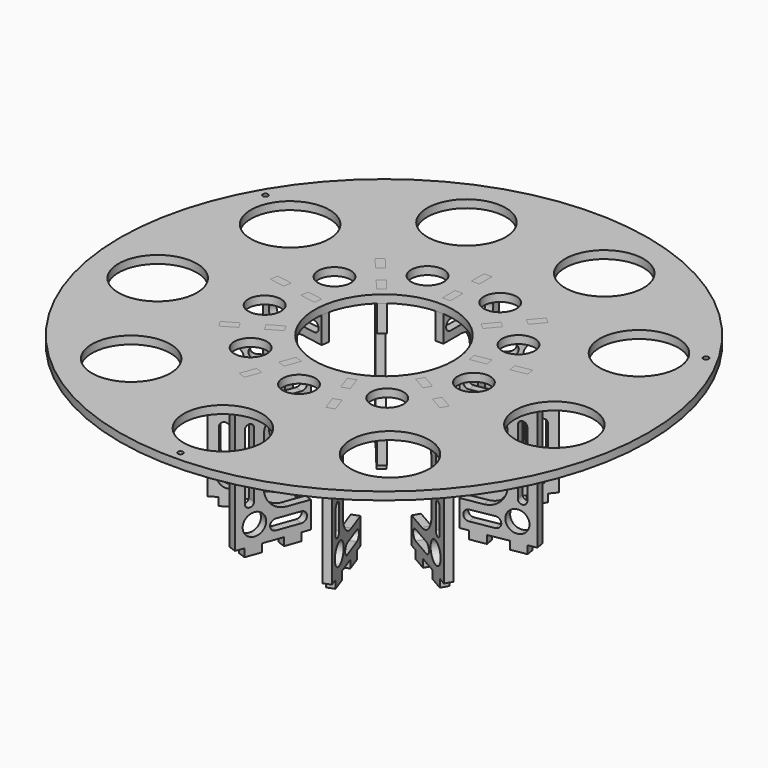
from build123d import *

# Parameters (mm, degrees)
F1_R     = 100
F1_R_2   = 14.8733999491
F1_R_3   = 1
F1_R_4   = 52.5
F1_R_5   = 6.1988966649
F1_R_6   = 26.25
F1_W     = 3
F1_H     = 6
F3_DEPTH = 3
F2_R     = 4.0793802843
F5_DEPTH = 1.5
F6_COUNT = 9


with BuildPart() as f3:
    # F1 (on Top) → F3 (new body)
    with BuildSketch(Plane.XY):
        Circle(F1_R)
        with Locations((-49.0125552386, -58.4108887878)):
            Circle(F1_R_2, mode=Mode.SUBTRACT)
        with Locations((-75.0915911672, -13.2406735471)):
            Circle(F1_R_2, mode=Mode.SUBTRACT)
        with Locations((0, -96.309684217)):
            Circle(F1_R_3, mode=Mode.SUBTRACT)
        with Locations((0, -76.25)):
            Circle(F1_R_2, mode=Mode.SUBTRACT)
        with Locations((49.0125552386, -58.4108887878)):
            Circle(F1_R_2, mode=Mode.SUBTRACT)
        with Locations((75.0915911672, -13.2406735471)):
            Circle(F1_R_2, mode=Mode.SUBTRACT)
        with Locations((-83.4066331624, 48.1548421085)):
            Circle(F1_R_3, mode=Mode.SUBTRACT)
        with Locations((-66.0344370386, 38.125)):
            Circle(F1_R_2, mode=Mode.SUBTRACT)
        with Locations((-26.0790359286, 71.6515623349)):
            Circle(F1_R_2, mode=Mode.SUBTRACT)
        Circle(F1_R_4, mode=Mode.SUBTRACT)
        with Locations((66.0344370386, 38.125)):
            Circle(F1_R_2, mode=Mode.SUBTRACT)
        with Locations((83.4066331624, 48.1548421085)):
            Circle(F1_R_3, mode=Mode.SUBTRACT)
        with Locations((26.0790359286, 71.6515623349)):
            Circle(F1_R_2, mode=Mode.SUBTRACT)
        Circle(F1_R_4)
        with Locations((-25.850554124, -30.8074907478)):
            Circle(F1_R_5, mode=Mode.SUBTRACT)
        Polygon((-18.2433428605, -45.7374659643), (-16.1912220005, -40.0993102396), (-13.3721441382, -41.1253706696), (-15.4242649981, -46.7635263943), align=None, mode=Mode.SUBTRACT)
        Polygon((-10.7428642864, -33.9014836473), (-13.5619421487, -32.8754232173), (-11.5098212888, -27.2372674926), (-8.6907434264, -28.2633279226), align=None, mode=Mode.SUBTRACT)
        Polygon((-43.3746878425, -23.3103368943), (-38.1785354198, -20.3103368943), (-36.6785354198, -22.9084131057), (-41.8746878425, -25.9084131057), align=None, mode=Mode.SUBTRACT)
        Polygon((-30.0209651282, -19.0646631057), (-31.5209651282, -16.4665868943), (-26.3248127055, -13.4665868943), (-24.8248127055, -16.0646631057), align=None, mode=Mode.SUBTRACT)
        with Locations((-39.6053466765, -6.9834911994)):
            Circle(F1_R_5, mode=Mode.SUBTRACT)
        with Locations((0, -40.2163229883)):
            Circle(F1_R_5, mode=Mode.SUBTRACT)
        Polygon((15.4242649981, -46.7635263943), (13.3721441382, -41.1253706696), (16.1912220005, -40.0993102396), (18.2433428605, -45.7374659643), align=None, mode=Mode.SUBTRACT)
        Polygon((13.5619421487, -32.8754232173), (10.7428642864, -33.9014836473), (8.6907434264, -28.2633279226), (11.5098212888, -27.2372674926), align=None, mode=Mode.SUBTRACT)
        with Locations((25.850554124, -30.8074907478)):
            Circle(F1_R_5, mode=Mode.SUBTRACT)
        Polygon((31.5209651282, -16.4665868943), (30.0209651282, -19.0646631057), (24.8248127055, -16.0646631057), (26.3248127055, -13.4665868943), align=None, mode=Mode.SUBTRACT)
        Polygon((41.8746878425, -25.9084131057), (36.6785354198, -22.9084131057), (38.1785354198, -20.3103368943), (43.3746878425, -23.3103368943), align=None, mode=Mode.SUBTRACT)
        with Locations((39.6053466765, -6.9834911994)):
            Circle(F1_R_5, mode=Mode.SUBTRACT)
        Polygon((-48.2105343271, 10.0239578741), (-42.301687809, 8.9820688081), (-42.822632342, 6.027645549), (-48.7314788601, 7.069534615), align=None, mode=Mode.SUBTRACT)
        Polygon((-35.2519227407, 4.6927251832), (-34.7309782077, 7.6471484422), (-28.8221316896, 6.6052593762), (-29.3430762226, 3.6508361172), align=None, mode=Mode.SUBTRACT)
        with Locations((-34.8283573546, 20.1081614941)):
            Circle(F1_R_5, mode=Mode.SUBTRACT)
        Polygon((-23.9881139214, 26.254335205), (-21.689980592, 28.1826980341), (-17.8332549339, 23.5864313754), (-20.1313882632, 21.6580685463), align=None, mode=Mode.SUBTRACT)
        Polygon((-30.4881359996, 38.6679313493), (-26.6314103415, 34.0716646906), (-28.9295436708, 32.1433018615), (-32.7862693289, 36.7395685202), align=None, mode=Mode.SUBTRACT)
        with Locations((-13.7547925525, 37.7909819472)):
            Circle(F1_R_5, mode=Mode.SUBTRACT)
        Circle(F1_R_6, mode=Mode.SUBTRACT)
        Polygon((21.689980592, 28.1826980341), (23.9881139214, 26.254335205), (20.1313882632, 21.6580685463), (17.8332549339, 23.5864313754), align=None, mode=Mode.SUBTRACT)
        Polygon((34.7309782077, 7.6471484422), (35.2519227407, 4.6927251832), (29.3430762226, 3.6508361172), (28.8221316896, 6.6052593762), align=None, mode=Mode.SUBTRACT)
        Polygon((48.7314788601, 7.069534615), (42.822632342, 6.027645549), (42.301687809, 8.9820688081), (48.2105343271, 10.0239578741), align=None, mode=Mode.SUBTRACT)
        with Locations((34.8283573546, 20.1081614941)):
            Circle(F1_R_5, mode=Mode.SUBTRACT)
        with Locations((0, 32.53125)):
            Rectangle(F1_W, F1_H, mode=Mode.SUBTRACT)
        with Locations((0, 46.21875)):
            Rectangle(F1_W, F1_H, mode=Mode.SUBTRACT)
        with Locations((13.7547925525, 37.7909819472)):
            Circle(F1_R_5, mode=Mode.SUBTRACT)
        Polygon((32.7862693289, 36.7395685202), (28.9295436708, 32.1433018615), (26.6314103415, 34.0716646906), (30.4881359996, 38.6679313493), align=None, mode=Mode.SUBTRACT)
    extrude(amount=F3_DEPTH)


with BuildPart() as f5:
    # F2 (on Right) → F5 (new body, symmetric)
    with BuildSketch(Plane.YZ):
        with BuildLine():
            Line((52.5, -54), (52.5, -27))
            Line((52.5, -27), (42.5, -27))
            Line((42.5, -27), (42.5, -36))
            ThreePointArc((42.5, -36), (40.1568542495, -41.6568542495), (34.5, -44))
            Line((34.5, -44), (26.25, -44))
            Line((26.25, -44), (26.25, -54))
            Line((26.25, -54), (29.53125, -54))
            Line((29.53125, -54), (29.53125, -57))
            Line((29.53125, -57), (35.53125, -57))
            Line((35.53125, -57), (35.53125, -54))
            Line((35.53125, -54), (43.21875, -54))
            Line((43.21875, -54), (43.21875, -57))
            Line((43.21875, -57), (49.21875, -57))
            Line((49.21875, -57), (49.21875, -54))
            Line((49.21875, -54), (52.5, -54))
        make_face()
        with BuildLine():
            Line((29.53125, -47.0083602667), (38.3502396196, -47.0083602667))
            ThreePointArc((38.3502396196, -47.0083602667), (40.3418793529, -49), (38.3502396196, -50.9916397333))
            Line((38.3502396196, -50.9916397333), (29.53125, -50.9916397333))
            ThreePointArc((29.53125, -50.9916397333), (27.5396102667, -49), (29.53125, -47.0083602667))
        make_face(mode=Mode.SUBTRACT)
        with Locations((45.763425529, -46.9617643356)):
            Circle(F2_R, mode=Mode.SUBTRACT)
        with BuildLine():
            Line((49.1095489264, -30.4966405928), (49.1095489264, -39.3156302124))
            ThreePointArc((49.1095489264, -39.3156302124), (47.5, -40.9251791388), (45.8904510736, -39.3156302124))
            Line((45.8904510736, -39.3156302124), (45.8904510736, -30.4966405928))
            ThreePointArc((45.8904510736, -30.4966405928), (47.5, -28.8870916665), (49.1095489264, -30.4966405928))
        make_face(mode=Mode.SUBTRACT)
        with BuildLine():
            Line((52.5, -27), (52.5, 0))
            Line((52.5, 0), (49.21875, 0))
            Line((49.21875, 0), (49.21875, 3))
            Line((49.21875, 3), (43.21875, 3))
            Line((43.21875, 3), (43.21875, 0))
            Line((43.21875, 0), (35.53125, 0))
            Line((35.53125, 0), (35.53125, 3))
            Line((35.53125, 3), (29.53125, 3))
            Line((29.53125, 3), (29.53125, 0))
            Line((29.53125, 0), (26.25, 0))
            Line((26.25, 0), (26.25, -10))
            Line((26.25, -10), (34.5, -10))
            ThreePointArc((34.5, -10), (40.1568542495, -12.3431457505), (42.5, -18))
            Line((42.5, -18), (42.5, -27))
            Line((42.5, -27), (52.5, -27))
        make_face()
        with BuildLine():
            ThreePointArc((38.3502396196, -3.0083602667), (40.3418793529, -5), (38.3502396196, -6.9916397333))
            Line((38.3502396196, -6.9916397333), (29.53125, -6.9916397333))
            ThreePointArc((29.53125, -6.9916397333), (27.5396102667, -5), (29.53125, -3.0083602667))
            Line((29.53125, -3.0083602667), (38.3502396196, -3.0083602667))
        make_face(mode=Mode.SUBTRACT)
        with BuildLine():
            ThreePointArc((45.8904510736, -14.6843697876), (47.5, -13.0748208612), (49.1095489264, -14.6843697876))
            Line((49.1095489264, -14.6843697876), (49.1095489264, -23.5033594072))
            ThreePointArc((49.1095489264, -23.5033594072), (47.5, -25.1129083335), (45.8904510736, -23.5033594072))
            Line((45.8904510736, -23.5033594072), (45.8904510736, -14.6843697876))
        make_face(mode=Mode.SUBTRACT)
        with Locations((45.763425529, -7.0382356644)):
            Circle(F2_R, mode=Mode.SUBTRACT)
    extrude(amount=F5_DEPTH, both=True)


with BuildPart() as f6_1:
    # F6: instance of F5
    add(f5.part.rotate(Axis((0, 0, -31.8709462881), (0, 0, -1)), 1 * 360 / F6_COUNT))


with BuildPart() as f6_2:
    # F6: instance of F5
    add(f5.part.rotate(Axis((0, 0, -31.8709462881), (0, 0, -1)), 2 * 360 / F6_COUNT))


with BuildPart() as f6_3:
    # F6: instance of F5
    add(f5.part.rotate(Axis((0, 0, -31.8709462881), (0, 0, -1)), 3 * 360 / F6_COUNT))


with BuildPart() as f6_4:
    # F6: instance of F5
    add(f5.part.rotate(Axis((0, 0, -31.8709462881), (0, 0, -1)), 4 * 360 / F6_COUNT))


with BuildPart() as f6_5:
    # F6: instance of F5
    add(f5.part.rotate(Axis((0, 0, -31.8709462881), (0, 0, -1)), 5 * 360 / F6_COUNT))


with BuildPart() as f6_6:
    # F6: instance of F5
    add(f5.part.rotate(Axis((0, 0, -31.8709462881), (0, 0, -1)), 6 * 360 / F6_COUNT))


with BuildPart() as f6_7:
    # F6: instance of F5
    add(f5.part.rotate(Axis((0, 0, -31.8709462881), (0, 0, -1)), 7 * 360 / F6_COUNT))


with BuildPart() as f6_8:
    # F6: instance of F5
    add(f5.part.rotate(Axis((0, 0, -31.8709462881), (0, 0, -1)), 8 * 360 / F6_COUNT))


solid = Compound([f3.part, f5.part, f6_1.part, f6_2.part, f6_3.part, f6_4.part, f6_5.part, f6_6.part, f6_7.part, f6_8.part])
